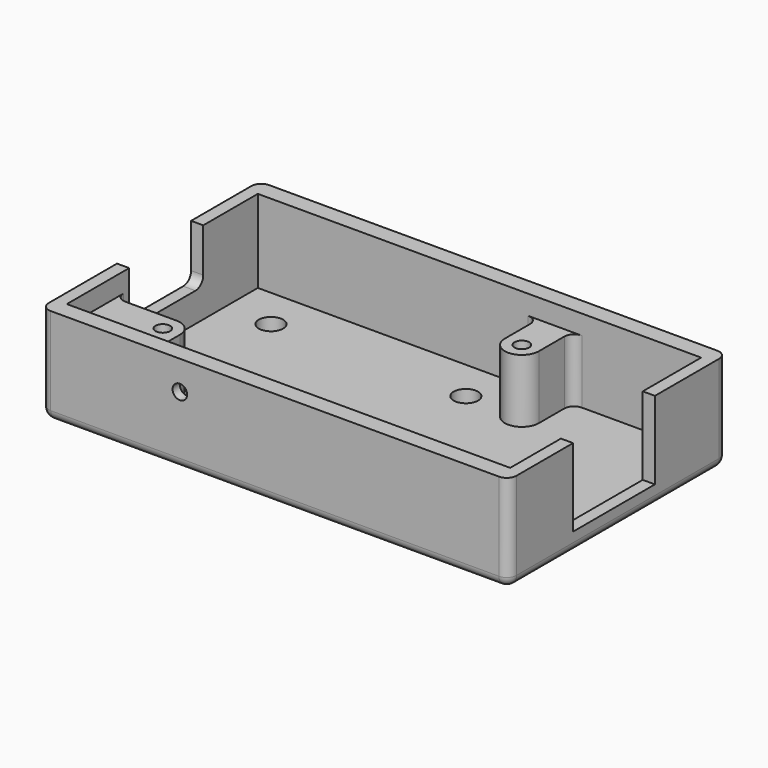
from build123d import *

# Parameters (mm, degrees)
SKETCH_W        = 48
SKETCH_H        = 28
PAD_DEPTH       = 10
SKETCH001_W     = 45.5
SKETCH001_H     = 24.5
POCKET_DEPTH    = 8.5
PAD001_DEPTH    = 6.5
SKETCH003_R     = 0.75
POCKET001_DEPTH = 5
SKETCH004_W     = 9.5
SKETCH004_H     = 5.5
POCKET002_DEPTH = 1.25
SKETCH005_W     = 10.5
SKETCH005_H     = 8
POCKET003_DEPTH = 1.25
FILLET_R        = 1
FILLET001_R     = 1
SKETCH012_R     = 0.75
POCKET007_DEPTH = 1.75
SKETCH013_W     = 3.6
SKETCH013_H     = 2.5
POCKET008_DEPTH = 0.8
SKETCH015_R     = 1.25
POCKET009_DEPTH = 1.501


with BuildPart() as part:
    # Sketch → Pad (new body)
    with BuildSketch(Plane.XY):
        Rectangle(SKETCH_W, SKETCH_H)
    extrude(amount=PAD_DEPTH)

    # Sketch001 (on Face6 of Pad) → Pocket (cut)
    with BuildSketch(Plane.XY.offset(10)):
        Rectangle(SKETCH001_W, SKETCH001_H)
    extrude(amount=-POCKET_DEPTH, mode=Mode.SUBTRACT)

    # Sketch002 (on Face11 of Pocket) → Pad001 (join)
    with BuildSketch(Plane.XY.offset(1.5)):
        with BuildLine():
            Line((-22.75, -6), (-16.5, -6))
            ThreePointArc((-14.75, -7.75), (-15.262563, -6.512563), (-16.5, -6))
            Line((-14.75, -12.25), (-14.75, -7.75))
            Line((-22.75, -12.25), (-14.75, -12.25))
            Line((-22.75, -6), (-22.75, -12.25))
        make_face()
        with BuildLine():
            Line((6, 12.25), (6, 8))
            ThreePointArc((6, 8), (7.75, 6.25), (9.5, 8))
            Line((9.5, 12.25), (9.5, 8))
            Line((6, 12.25), (9.5, 12.25))
        make_face()
    extrude(amount=PAD001_DEPTH)

    # Sketch003 (on Face13 of Pad001) → Pocket001 (cut)
    with BuildSketch(Plane.XY.offset(8)):
        with Locations((-16.5, -7.75)):
            Circle(SKETCH003_R)
        with Locations((7.75, 8)):
            Circle(SKETCH003_R)
    extrude(amount=-POCKET001_DEPTH, mode=Mode.SUBTRACT)

    # Sketch004 (on Face2 of Pocket001) → Pocket002 (cut)
    with BuildSketch(Plane(origin=(-24, 0, 0), x_dir=(0, -1, 0), z_dir=(-1, 0, 0))):
        with Locations((-0.5, 7.25)):
            Rectangle(SKETCH004_W, SKETCH004_H)
    extrude(amount=-POCKET002_DEPTH, mode=Mode.SUBTRACT)

    # Sketch005 (on Face3 of Pocket002) → Pocket003 (cut)
    with BuildSketch(Plane.YZ.offset(24)):
        with Locations((-0.495, 6)):
            Rectangle(SKETCH005_W, SKETCH005_H)
    extrude(amount=-POCKET003_DEPTH, mode=Mode.SUBTRACT)

    # Fillet
    fillet_edges = [part.edges().sort_by_distance(p)[0] for p in [
        (-23.375, 5.25, 4.5),
        (-23.375, -4.25, 4.5),
        (-22.75, -6, 4.75),
        (-14.75, -12.25, 4.75),
        (6, 12.25, 4.75),
        (9.5, 12.25, 4.75),
    ]]
    fillet(fillet_edges, radius=FILLET_R)

    # Fillet001
    fillet001_edges = [part.edges().sort_by_distance(p)[0] for p in [
        (-24, -14, 5),
        (24, -14, 5),
        (0, -14, 0),
        (-24, 0, 0),
        (-24, 14, 5),
        (0, 14, 0),
        (24, 14, 5),
        (24, 0, 0),
    ]]
    fillet(fillet001_edges, radius=FILLET001_R)

    # Sketch012 (on Face15 of Fillet001) → Pocket007 (cut)
    with BuildSketch(Plane.XZ.offset(14)):
        with Locations((-9.75, 7)):
            Circle(SKETCH012_R)
    extrude(amount=-POCKET007_DEPTH, mode=Mode.SUBTRACT)

    # Sketch013 (on Face17 of Pocket007) → Pocket008 (cut)
    with BuildSketch(Plane(origin=(0, -12.25, 0), x_dir=(-1, 0, 0), z_dir=(0, 1, 0))):
        with Locations((9.75, 7)):
            Rectangle(SKETCH013_W, SKETCH013_H)
    extrude(amount=-POCKET008_DEPTH, mode=Mode.SUBTRACT)

    # Sketch015 (on Face31 of Pocket008) → Pocket009 (cut, through all)
    with BuildSketch(Plane.XY.offset(1.5)):
        with Locations((-18, 8)):
            Circle(SKETCH015_R)
        with Locations((2, 8)):
            Circle(SKETCH015_R)
    extrude(amount=-POCKET009_DEPTH, mode=Mode.SUBTRACT)


solid = part.part
